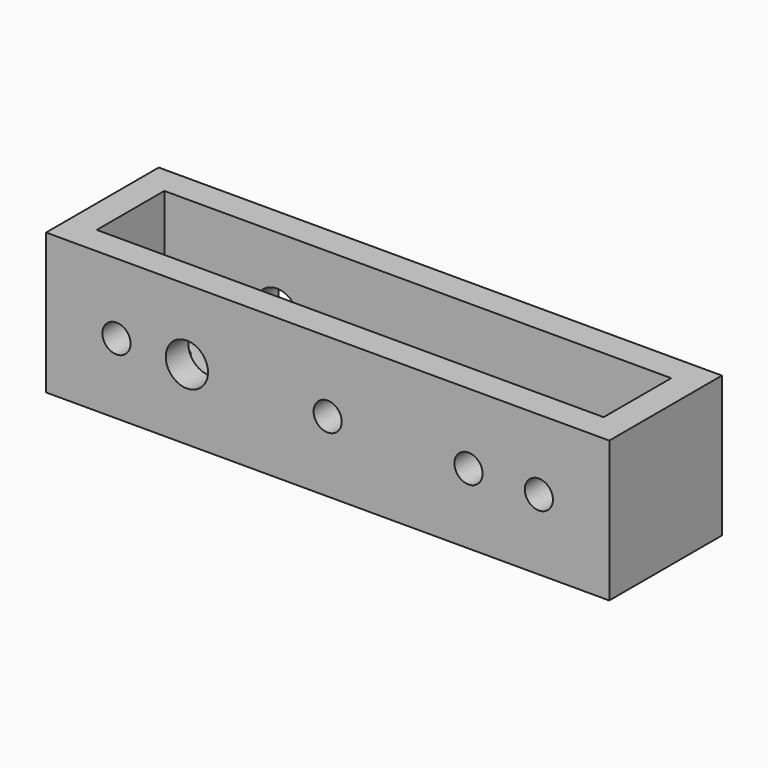
from build123d import *

# Parameters (mm, degrees)
F0_W     = 40
F0_H     = 10
F1_DEPTH = 10
F2_R     = 1
F2_R_2   = 1.5
F3_DEPTH = 10.001
F4_R     = 1
F4_R_2   = 1.5
F5_DEPTH = 10.001
F6_W     = 36
F6_H     = 6
F7_DEPTH = 8


with BuildPart() as f1:
    # F0 (on Top) → F1 (new body)
    with BuildSketch(Plane.XY):
        with Locations((-20, 5)):
            Rectangle(F0_W, F0_H)
    extrude(amount=F1_DEPTH)

    # F2 (on face) → F3 (cut, through all)
    with BuildSketch(Plane(origin=(0, 0, 0), x_dir=(1, 0, 0), z_dir=(0, 0, -1))):
        with Locations((-35, -5)):
            Circle(F2_R)
        with Locations((-5, -5)):
            Circle(F2_R)
        with Locations((-25, -5)):
            Circle(F2_R_2)
        with Locations((-15, -5)):
            Circle(F2_R_2)
    extrude(amount=-F3_DEPTH, mode=Mode.SUBTRACT)

    # F4 (on face) → F5 (cut, through all)
    with BuildSketch(Plane.XZ):
        with Locations((-35, 5)):
            Circle(F4_R)
        with Locations((-30, 5)):
            Circle(F4_R_2)
        with Locations((-5, 5)):
            Circle(F4_R)
        with Locations((-10, 5)):
            Circle(F4_R)
        with Locations((-20, 5)):
            Circle(F4_R)
    extrude(amount=-F5_DEPTH, mode=Mode.SUBTRACT)

    # F6 (on face) → F7 (cut, through all)
    with BuildSketch(Plane.XY.offset(10)):
        with Locations((-20, 5)):
            Rectangle(F6_W, F6_H)
    extrude(amount=-F7_DEPTH, mode=Mode.SUBTRACT)


solid = f1.part
